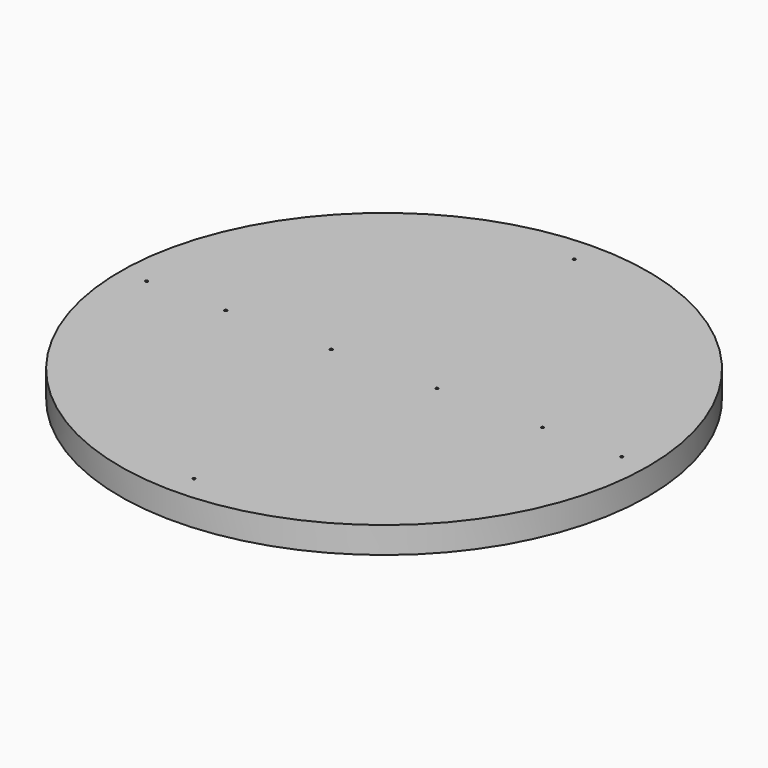
from build123d import *

# Parameters (mm, degrees)
F0_R     = 50
F0_R_2   = 0.25
F1_DEPTH = 5


with BuildPart() as f1:
    # F0 (on Top) → F1 (new body)
    with BuildSketch(Plane.XY):
        Circle(F0_R)
        with Locations((0, -45)):
            Circle(F0_R_2, mode=Mode.SUBTRACT)
        with Locations((-45, 0)):
            Circle(F0_R_2, mode=Mode.SUBTRACT)
        with Locations((-30, 0)):
            Circle(F0_R_2, mode=Mode.SUBTRACT)
        with Locations((-10, 0)):
            Circle(F0_R_2, mode=Mode.SUBTRACT)
        with Locations((10, 0)):
            Circle(F0_R_2, mode=Mode.SUBTRACT)
        with Locations((30, 0)):
            Circle(F0_R_2, mode=Mode.SUBTRACT)
        with Locations((45, 0)):
            Circle(F0_R_2, mode=Mode.SUBTRACT)
        with Locations((0, 45)):
            Circle(F0_R_2, mode=Mode.SUBTRACT)
    extrude(amount=F1_DEPTH)


solid = f1.part
